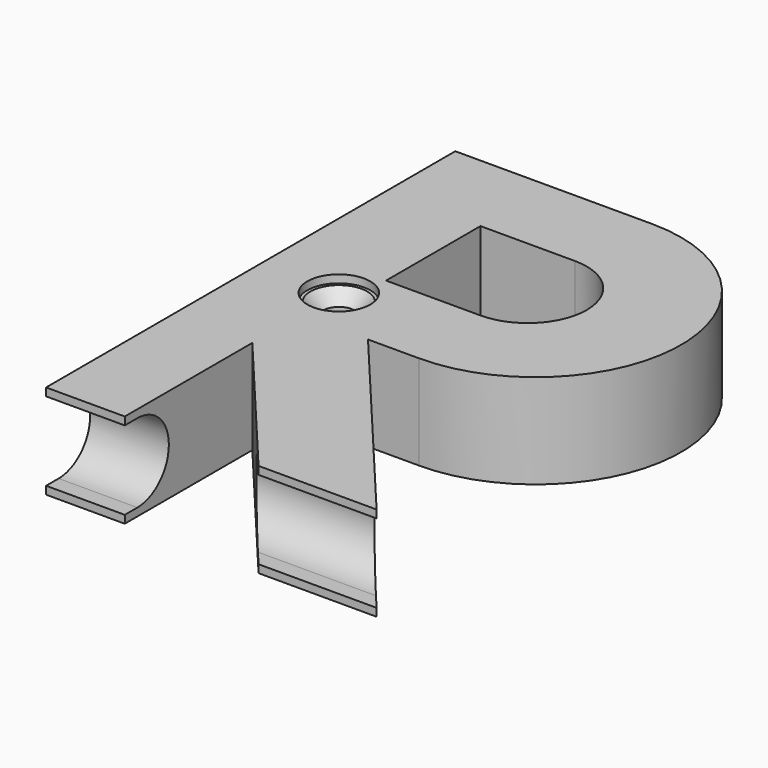
from build123d import *

# Parameters (mm, degrees)
F1_DEPTH = 12
F3_DEPTH = 43.501
F4_R     = 2
F5_DEPTH = 12.001
F6_R     = 4
F7_DEPTH = 1
F8_SIZE  = 1.6


with BuildPart() as f1:
    # F0 (on Top) → F1 (new body)
    with BuildSketch(Plane.XY):
        with BuildLine():
            Line((-5, 32.5), (-30, 32.5))
            Line((-30, 32.5), (-30, -32.5))
            Line((-30, -32.5), (-20, -32.5))
            Line((-20, -32.5), (-20, -12.24))
            Line((-20, -12.24), (-3, -32.5))
            Line((-3, -32.5), (12, -32.5))
            Line((12, -32.5), (-11.494571, -4.5))
            Line((-11.494571, -4.5), (-5, -4.5))
            ThreePointArc((-5, -4.5), (13.5, 14), (-5, 32.5))
        make_face()
        with BuildLine():
            Line((-18, 6.5), (-18, 21.5))
            Line((-18, 21.5), (-6, 21.5))
            ThreePointArc((-6, 21.5), (1.5, 14), (-6, 6.5))
            Line((-6, 6.5), (-18, 6.5))
        make_face(mode=Mode.SUBTRACT)
    extrude(amount=F1_DEPTH)

    # F2 (on face) → F3 (cut, through all)
    with BuildSketch(Plane(origin=(-30, 0, 0), x_dir=(0, -1, 0), z_dir=(-1, 0, 0))):
        with BuildLine():
            Line((32.5, 11), (30.5, 11))
            ThreePointArc((30.5, 11), (25.5, 6), (30.5, 1))
            Line((30.5, 1), (32.5, 1))
            Line((32.5, 1), (32.5, 11))
        make_face()
    extrude(amount=-F3_DEPTH, mode=Mode.SUBTRACT)

    # F4 (on face) → F5 (cut, through all)
    with BuildSketch(Plane.XY.offset(12)):
        with Locations((-20, 1.5)):
            Circle(F4_R)
    extrude(amount=-F5_DEPTH, mode=Mode.SUBTRACT)

    # F6 (on face) → F7 (cut)
    with BuildSketch(Plane.XY.offset(12)):
        with Locations((-20, 1.5)):
            Circle(F6_R)
    extrude(amount=-F7_DEPTH, mode=Mode.SUBTRACT)

    # F8
    f8_edges = [f1.edges().sort_by_distance(p)[0] for p in [
        (-22, 1.5, 11),
    ]]
    chamfer(f8_edges, length=F8_SIZE)


solid = f1.part
